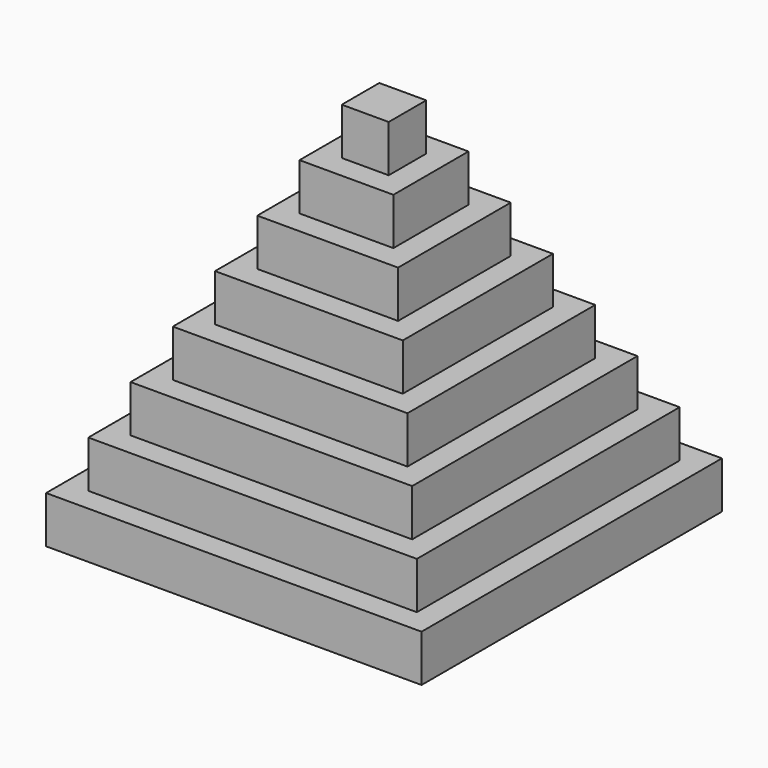
from build123d import *

# Parameters (mm, degrees)
F0_W     = 80
F0_H     = 80
F0_W_2   = 70
F0_H_2   = 70
F1_DEPTH = 10
F0_W_3   = 60
F0_H_3   = 60
F2_DEPTH = 20
F0_W_4   = 50
F0_H_4   = 50
F3_DEPTH = 30
F0_W_5   = 40
F0_H_5   = 40
F4_DEPTH = 40
F0_W_6   = 30
F0_H_6   = 30
F5_DEPTH = 50
F0_W_7   = 20
F0_H_7   = 20
F6_DEPTH = 60
F0_W_8   = 10
F0_H_8   = 10
F7_DEPTH = 70
F8_DEPTH = 80


with BuildPart() as f1:
    # F0 (on Top) → F1 (new body)
    with BuildSketch(Plane.XY):
        Rectangle(F0_W, F0_H)
        Rectangle(F0_W_2, F0_H_2, mode=Mode.SUBTRACT)
    extrude(amount=F1_DEPTH)

    # F0 (on Top) → F2 (join)
    with BuildSketch(Plane.XY):
        Rectangle(F0_W_2, F0_H_2)
        Rectangle(F0_W_3, F0_H_3, mode=Mode.SUBTRACT)
    extrude(amount=F2_DEPTH)

    # F0 (on Top) → F3 (join)
    with BuildSketch(Plane.XY):
        Rectangle(F0_W_3, F0_H_3)
        Rectangle(F0_W_4, F0_H_4, mode=Mode.SUBTRACT)
    extrude(amount=F3_DEPTH)

    # F0 (on Top) → F4 (join)
    with BuildSketch(Plane.XY):
        Rectangle(F0_W_4, F0_H_4)
        Rectangle(F0_W_5, F0_H_5, mode=Mode.SUBTRACT)
    extrude(amount=F4_DEPTH)

    # F0 (on Top) → F5 (join)
    with BuildSketch(Plane.XY):
        Rectangle(F0_W_5, F0_H_5)
        Rectangle(F0_W_6, F0_H_6, mode=Mode.SUBTRACT)
    extrude(amount=F5_DEPTH)

    # F0 (on Top) → F6 (join)
    with BuildSketch(Plane.XY):
        Rectangle(F0_W_6, F0_H_6)
        Rectangle(F0_W_7, F0_H_7, mode=Mode.SUBTRACT)
    extrude(amount=F6_DEPTH)

    # F0 (on Top) → F7 (join)
    with BuildSketch(Plane.XY):
        Rectangle(F0_W_7, F0_H_7)
        Rectangle(F0_W_8, F0_H_8, mode=Mode.SUBTRACT)
    extrude(amount=F7_DEPTH)

    # F0 (on Top) → F8 (join)
    with BuildSketch(Plane.XY):
        Rectangle(F0_W_8, F0_H_8)
    extrude(amount=F8_DEPTH)


solid = f1.part
